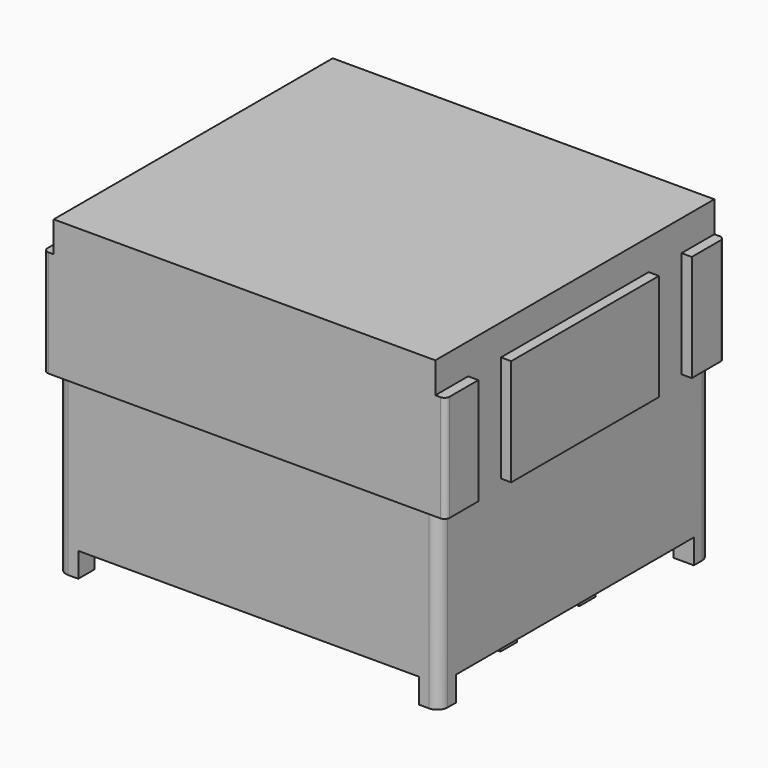
from build123d import *

# Parameters (mm, degrees)
SKETCH_W                      = 19.6
SKETCH_H                      = 17
PAD_DEPTH                     = 15.7
SKETCH001_W                   = 19.6
SKETCH001_H                   = 8.5
POCKET_DEPTH                  = 0.25
SKETCH002_W                   = 16.5
SKETCH002_H                   = 8.5
POCKET001_DEPTH               = 0.5
SKETCH008_W                   = 19.6
SKETCH008_H                   = 17
POCKET002_DEPTH               = 0.5
SKETCH009_W                   = 17
SKETCH009_H                   = 1.5
POCKET003_DEPTH               = 0.5
SKETCH010_W                   = 2
SKETCH010_H                   = 5.2
POCKET004_DEPTH               = 0.5
SKETCH010_MIRRORED005_2_W     = 2
SKETCH010_MIRRORED005_2_H     = 5.2
POCKET004_MIRRORED005_2_DEPTH = 0.5
SKETCH024_W                   = 19.6
SKETCH024_H                   = 17
POCKET006_DEPTH               = 1.2
SKETCH025_W                   = 16
SKETCH025_H                   = 1
PAD011_DEPTH                  = 1.2
SKETCH038_W                   = 1
SKETCH038_H                   = 1
PAD014_DEPTH                  = 1.2
SKETCH038_MIRRORED012_2_W     = 1
SKETCH038_MIRRORED012_2_H     = 1
PAD014_MIRRORED012_2_DEPTH    = 1.2
FILLET003_R                   = 0.5
FILLET004_R                   = 0.25


with BuildPart() as part:
    # Sketch → Pad (new body)
    with BuildSketch(Plane.XY):
        Rectangle(SKETCH_W, SKETCH_H)
    extrude(amount=PAD_DEPTH)

    # Sketch001 (on Face3 of Pad) → Pocket (cut)
    with BuildSketch(Plane.XZ.offset(8.5)):
        with Locations((0, 4.25)):
            Rectangle(SKETCH001_W, SKETCH001_H)
    pocket = extrude(amount=-POCKET_DEPTH, mode=Mode.SUBTRACT)

    # Mirrored: Pocket across XZ
    add(pocket.mirror(Plane.XZ), mode=Mode.SUBTRACT)

    # Sketch002 (on Face5 of Mirrored) → Pocket001 (cut)
    with BuildSketch(Plane(origin=(-9.8, 0, 0), x_dir=(0, -1, 0), z_dir=(-1, 0, 0))):
        with Locations((0, 4.25)):
            Rectangle(SKETCH002_W, SKETCH002_H)
    pocket001 = extrude(amount=-POCKET001_DEPTH, mode=Mode.SUBTRACT)

    # Mirrored001: Pocket001 across YZ
    add(pocket001.mirror(Plane.YZ), mode=Mode.SUBTRACT)

    # Sketch008 (on Face4 of Mirrored001) → Pocket002 (cut)
    with BuildSketch(Plane.XY.offset(15.7)):
        Rectangle(SKETCH008_W, SKETCH008_H)
    extrude(amount=-POCKET002_DEPTH, mode=Mode.SUBTRACT)

    # Sketch009 (on Face4 of Pocket002) → Pocket003 (cut)
    with BuildSketch(Plane(origin=(-9.8, 0, 0), x_dir=(0, -1, 0), z_dir=(-1, 0, 0))):
        with Locations((0, 14.45)):
            Rectangle(SKETCH009_W, SKETCH009_H)
    pocket003 = extrude(amount=-POCKET003_DEPTH, mode=Mode.SUBTRACT)

    # Mirrored004: Pocket003 across YZ
    add(pocket003.mirror(Plane.YZ), mode=Mode.SUBTRACT)

    # Sketch010 (on Face8 of Mirrored004) → Pocket004 (cut)
    with BuildSketch(Plane(origin=(-9.8, 0, 0), x_dir=(0, -1, 0), z_dir=(-1, 0, 0))):
        with Locations((-5.5, 11.1)):
            Rectangle(SKETCH010_W, SKETCH010_H)
    pocket004 = extrude(amount=-POCKET004_DEPTH, mode=Mode.SUBTRACT)

    # Sketch010 Mirrored005 2 → Pocket004 Mirrored005 2 (cut)
    with BuildSketch(Plane.YZ.offset(-9.8)):
        with Locations((-5.5, 11.1)):
            Rectangle(SKETCH010_MIRRORED005_2_W, SKETCH010_MIRRORED005_2_H)
    pocket004_mirrored005_2 = extrude(amount=POCKET004_MIRRORED005_2_DEPTH, mode=Mode.SUBTRACT)

    # Mirrored006: Pocket004, Pocket004 Mirrored005 2 across YZ
    add(pocket004.mirror(Plane.YZ), mode=Mode.SUBTRACT)
    add(pocket004_mirrored005_2.mirror(Plane.YZ), mode=Mode.SUBTRACT)

    # Sketch024 (on Face13 of MultiTransform) → Pocket006 (cut)
    with BuildSketch(Plane(origin=(0, 0, 0), x_dir=(1, 0, 0), z_dir=(0, 0, -1))):
        Rectangle(SKETCH024_W, SKETCH024_H)
    extrude(amount=-POCKET006_DEPTH, mode=Mode.SUBTRACT)

    # Sketch025 (on Face12 of Pocket006) → Pad011 (join)
    with BuildSketch(Plane(origin=(0, 0, 1.2), x_dir=(1, 0, 0), z_dir=(0, 0, -1))):
        with Locations((0, 2.4)):
            Rectangle(SKETCH025_W, SKETCH025_H)
        with Locations((0, -2.4)):
            Rectangle(SKETCH025_W, SKETCH025_H)
    extrude(amount=PAD011_DEPTH)

    # Sketch038 (on Face12 of Pad011) → Pad014 (join)
    with BuildSketch(Plane(origin=(0, 0, 1.2), x_dir=(1, 0, 0), z_dir=(0, 0, -1))):
        with Locations((-8.8, 7.75)):
            Rectangle(SKETCH038_W, SKETCH038_H)
    pad014 = extrude(amount=PAD014_DEPTH)

    # Sketch038 Mirrored012 2 → Pad014 Mirrored012 2 (add)
    with BuildSketch(Plane.XY.offset(1.2)):
        with Locations((-8.8, 7.75)):
            Rectangle(SKETCH038_MIRRORED012_2_W, SKETCH038_MIRRORED012_2_H)
    pad014_mirrored012_2 = extrude(amount=-PAD014_MIRRORED012_2_DEPTH)

    # Mirrored013: Pad014, Pad014 Mirrored012 2 across YZ
    add(pad014.mirror(Plane.YZ))
    add(pad014_mirrored012_2.mirror(Plane.YZ))

    # Fillet003
    fillet003_edges = [part.edges().sort_by_distance(p)[0] for p in [
        (9.3, -8.25, 4.25),
        (-9.3, -8.25, 4.25),
        (9.3, 8.25, 4.25),
        (-9.3, 8.25, 4.25),
    ]]
    fillet(fillet003_edges, radius=FILLET003_R)

    # Fillet004
    fillet004_edges = [part.edges().sort_by_distance(p)[0] for p in [
        (-9.8, 8.5, 11.1),
        (-9.8, -8.5, 11.1),
        (9.8, 8.5, 11.1),
        (9.8, -8.5, 11.1),
    ]]
    fillet(fillet004_edges, radius=FILLET004_R)


solid = part.part
